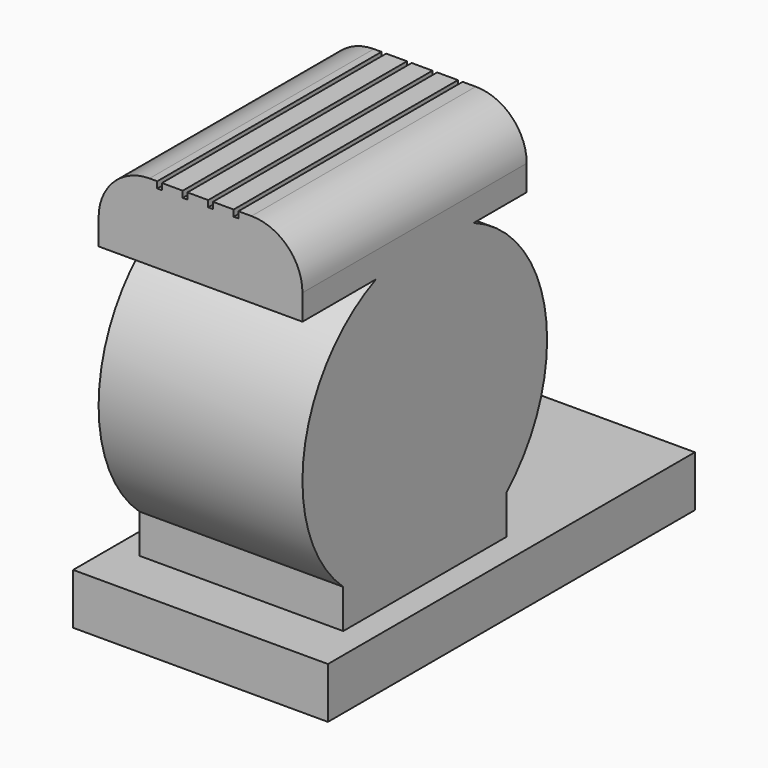
from build123d import *

# Parameters (mm, degrees)
F0_W     = 228.6
F0_H     = 25.4
F1_DEPTH = 63.5
F3_DEPTH = 50.8
F5_DEPTH = 139.7


with BuildPart() as f1:
    # F0 (on Right) → F1 (new body, symmetric)
    with BuildSketch(Plane.YZ):
        with Locations((114.3, 12.7)):
            Rectangle(F0_W, F0_H)
    extrude(amount=F1_DEPTH, both=True)

    # F2 (on Right) → F3 (join, symmetric)
    with BuildSketch(Plane.YZ):
        with BuildLine():
            Line((127, 6.35), (127, 44.803873))
            ThreePointArc((127, 44.803873), (76.2, 177.8), (25.4, 44.803873))
            Line((25.4, 44.803873), (25.4, 6.35))
            Line((25.4, 6.35), (127, 6.35))
        make_face()
    extrude(amount=F3_DEPTH, both=True)

    # F4 (on Front) → F5 (join)
    with BuildSketch(Plane.XZ):
        with BuildLine():
            Line((-50.8, 184.15), (-50.8, 171.45))
            Line((-50.8, 171.45), (50.8, 171.45))
            Line((50.8, 171.45), (50.8, 184.15))
            ThreePointArc((50.8, 184.15), (43.360512, 202.110512), (25.4, 209.55))
            Line((25.4, 209.55), (18.872138, 209.55))
            Line((18.872138, 209.55), (18.872138, 206.375))
            Line((18.872138, 206.375), (16.527231, 206.375))
            Line((16.527231, 206.375), (16.527231, 209.55))
            Line((16.527231, 209.55), (6.172138, 209.55))
            Line((6.172138, 209.55), (6.172138, 206.375))
            Line((6.172138, 206.375), (3.827231, 206.375))
            Line((3.827231, 206.375), (3.827231, 209.55))
            Line((3.827231, 209.55), (-6.527862, 209.55))
            Line((-6.527862, 209.55), (-6.527862, 206.375))
            Line((-6.527862, 206.375), (-8.872769, 206.375))
            Line((-8.872769, 206.375), (-8.872769, 209.55))
            Line((-8.872769, 209.55), (-19.227862, 209.55))
            Line((-19.227862, 209.55), (-19.227862, 206.375))
            Line((-19.227862, 206.375), (-21.572769, 206.375))
            Line((-21.572769, 206.375), (-21.572769, 209.55))
            Line((-21.572769, 209.55), (-25.4, 209.55))
            ThreePointArc((-25.4, 209.55), (-43.360512, 202.110512), (-50.8, 184.15))
        make_face()
    extrude(amount=-F5_DEPTH)


solid = f1.part
